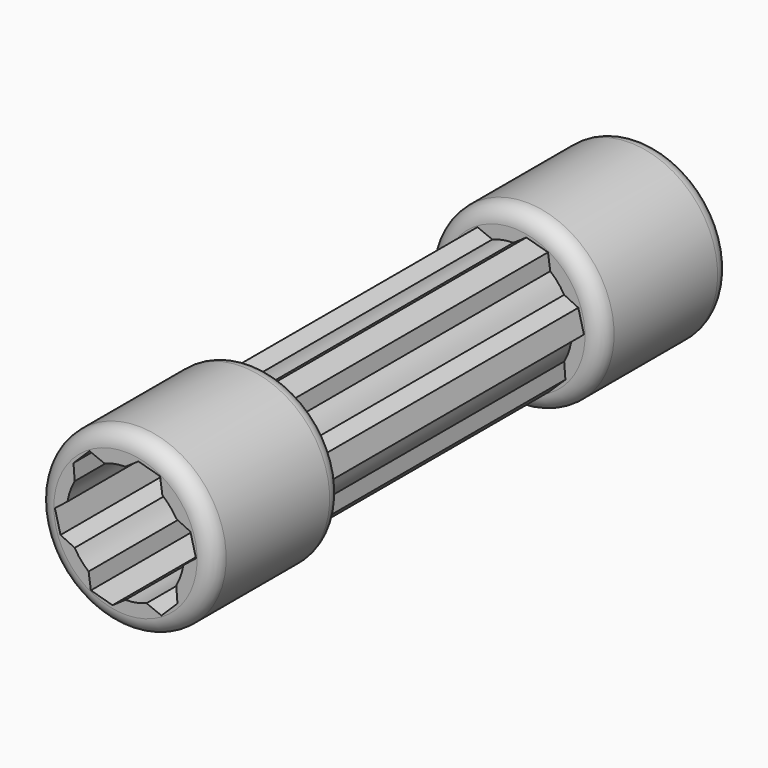
from build123d import *

# Parameters (mm, degrees)
F1_DEPTH = 101.6
F2_R     = 27.598358
F3_DEPTH = 50.8
F4_R     = 5.08


with BuildPart() as f1:
    # F0 (on Front) → F1 (new body)
    with BuildSketch(Plane.XZ):
        with BuildLine():
            ThreePointArc((18.206637, -2.867422), (18.374864, -1.438095), (18.431054, 0))
            ThreePointArc((18.431054, 0), (17.803031, 4.770308), (15.961761, 9.215527))
            ThreePointArc((15.961761, 9.215527), (14.009878, 11.976104), (11.586579, 14.3337))
            ThreePointArc((11.586579, 14.3337), (6.144858, 17.376549), (0, 18.431054))
            ThreePointArc((0, 18.431054), (-3.366672, 18.120962), (-6.620059, 17.201121))
            ThreePointArc((-6.620059, 17.201121), (-11.976104, 14.009878), (-15.961761, 9.215527))
            ThreePointArc((-15.961761, 9.215527), (-17.376549, 6.144858), (-18.206637, 2.867422))
            ThreePointArc((-18.206637, 2.867422), (-18.120962, -3.366672), (-15.961761, -9.215527))
            ThreePointArc((-15.961761, -9.215527), (-14.009878, -11.976104), (-11.586579, -14.3337))
            ThreePointArc((-11.586579, -14.3337), (-6.144858, -17.376549), (0, -18.431054))
            ThreePointArc((0, -18.431054), (3.366672, -18.120962), (6.620059, -17.201121))
            ThreePointArc((6.620059, -17.201121), (11.976104, -14.009878), (15.961761, -9.215527))
            ThreePointArc((15.961761, -9.215527), (17.376549, -6.144858), (18.206637, -2.867422))
        make_face()
        with BuildLine():
            ThreePointArc((15.961761, 9.215527), (17.803031, 4.770308), (18.431054, 0))
            ThreePointArc((18.431054, 0), (18.374864, -1.438095), (18.206637, -2.867422))
            Line((18.206637, -2.867422), (22.177325, 0.248))
            Line((22.177325, 0.248), (20.40857, 7.087775))
            Line((20.40857, 7.087775), (15.961761, 9.215527))
        make_face()
        with BuildLine():
            ThreePointArc((0, 18.431054), (6.144858, 17.376549), (11.586579, 14.3337))
            Line((11.586579, 14.3337), (10.873889, 19.330127))
            Line((10.873889, 19.330127), (4.066092, 21.218227))
            Line((4.066092, 21.218227), (0, 18.431054))
        make_face()
        with BuildLine():
            Line((16.342478, -14.130453), (15.961761, -9.215527))
            ThreePointArc((15.961761, -9.215527), (11.976104, -14.009878), (6.620059, -17.201121))
            Line((6.620059, -17.201121), (11.303437, -19.082127))
            Line((11.303437, -19.082127), (16.342478, -14.130453))
        make_face()
        with BuildLine():
            ThreePointArc((-15.961761, 9.215527), (-11.976104, 14.009878), (-6.620059, 17.201121))
            Line((-6.620059, 17.201121), (-11.303437, 19.082127))
            Line((-11.303437, 19.082127), (-16.342478, 14.130453))
            Line((-16.342478, 14.130453), (-15.961761, 9.215527))
        make_face()
        with BuildLine():
            Line((-4.066092, -21.218227), (0, -18.431054))
            ThreePointArc((0, -18.431054), (-6.144858, -17.376549), (-11.586579, -14.3337))
            Line((-11.586579, -14.3337), (-10.873889, -19.330127))
            Line((-10.873889, -19.330127), (-4.066092, -21.218227))
        make_face()
        with BuildLine():
            ThreePointArc((-15.961761, -9.215527), (-18.120962, -3.366672), (-18.206637, 2.867422))
            Line((-18.206637, 2.867422), (-22.177325, -0.248))
            Line((-22.177325, -0.248), (-20.40857, -7.087775))
            Line((-20.40857, -7.087775), (-15.961761, -9.215527))
        make_face()
    extrude(amount=F1_DEPTH)


with BuildPart() as f3:
    # F2 (on face) → F3 (new body)
    with BuildSketch(Plane(origin=(0, 0, 0), x_dir=(-1, 0, 0), z_dir=(0, 1, 0))):
        Circle(F2_R)
        with BuildLine():
            Line((-18.206637, -2.867422), (-22.177325, 0.248))
            Line((-22.177325, 0.248), (-20.40857, 7.087775))
            Line((-20.40857, 7.087775), (-15.961761, 9.215527))
            ThreePointArc((-15.961761, 9.215527), (-14.009878, 11.976104), (-11.586579, 14.3337))
            Line((-11.586579, 14.3337), (-10.873889, 19.330127))
            Line((-10.873889, 19.330127), (-4.066092, 21.218227))
            Line((-4.066092, 21.218227), (0, 18.431054))
            ThreePointArc((0, 18.431054), (3.366672, 18.120962), (6.620059, 17.201121))
            Line((6.620059, 17.201121), (11.303437, 19.082127))
            Line((11.303437, 19.082127), (16.342478, 14.130453))
            Line((16.342478, 14.130453), (15.961761, 9.215527))
            ThreePointArc((15.961761, 9.215527), (17.376549, 6.144858), (18.206637, 2.867422))
            Line((18.206637, 2.867422), (22.177325, -0.248))
            Line((22.177325, -0.248), (20.40857, -7.087775))
            Line((20.40857, -7.087775), (15.961761, -9.215527))
            ThreePointArc((15.961761, -9.215527), (14.009878, -11.976104), (11.586579, -14.3337))
            Line((11.586579, -14.3337), (10.873889, -19.330127))
            Line((10.873889, -19.330127), (4.066092, -21.218227))
            Line((4.066092, -21.218227), (0, -18.431054))
            ThreePointArc((0, -18.431054), (-3.366672, -18.120962), (-6.620059, -17.201121))
            Line((-6.620059, -17.201121), (-11.303437, -19.082127))
            Line((-11.303437, -19.082127), (-16.342478, -14.130453))
            Line((-16.342478, -14.130453), (-15.961761, -9.215527))
            ThreePointArc((-15.961761, -9.215527), (-17.376549, -6.144858), (-18.206637, -2.867422))
        make_face(mode=Mode.SUBTRACT)
    extrude(amount=F3_DEPTH)

    # F4
    f4_edges = [f3.edges().sort_by_distance(p)[0] for p in [
        (-27.598358, 25.4, 0),
        (27.598358, 0, 0),
        (27.598358, 50.8, 0),
    ]]
    fillet(f4_edges, radius=F4_R)


with BuildPart() as f6_1:
    # F6: instance of F3
    add(f3.part.mirror(Plane.XZ.offset(50.8)))


solid = Compound([f1.part, f3.part, f6_1.part])
